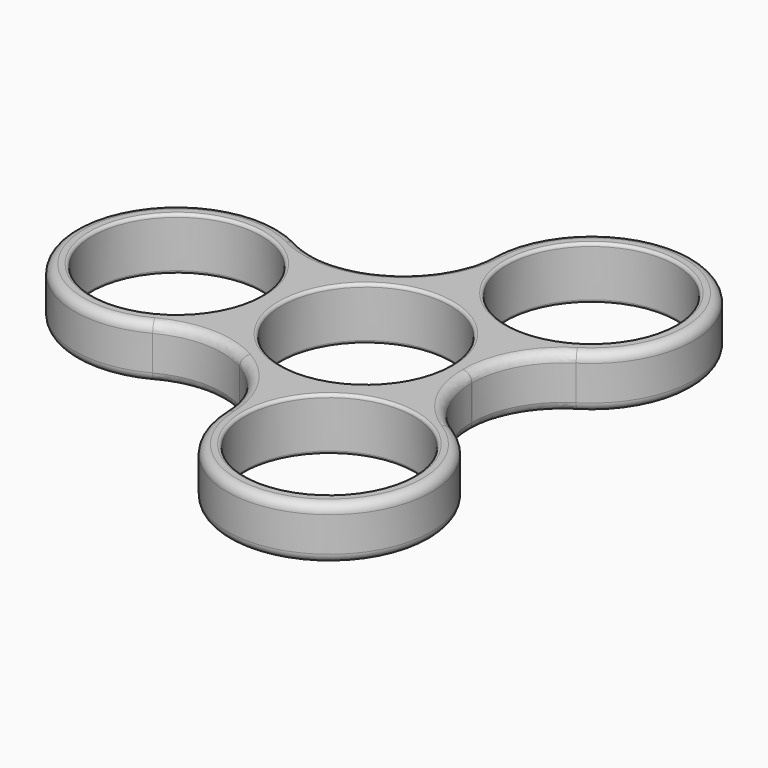
from build123d import *

# Parameters (mm, degrees)
F1_DEPTH = 7
F2_R     = 11.15
F3_DEPTH = 7.001
F4_R     = 11.15
F5_DEPTH = 7.001
F6_R     = 12
F7_R     = 0.4
F8_R     = 1.2


with BuildPart() as f1:
    # F0 (on Top) → F1 (new body)
    with BuildSketch(Plane.XY):
        with BuildLine():
            ThreePointArc((-12.775, 5.7270738602), (-38.5, 0), (-12.775, -5.7270738602))
            ThreePointArc((-12.775, -5.7270738602), (-7, -12.124355653), (1.4277085477, -13.9270114634))
            ThreePointArc((1.4277085477, -13.9270114634), (19.25, -33.3419780457), (11.3472914523, -8.1999376033))
            ThreePointArc((11.3472914523, -8.1999376033), (14, 0), (11.3472914523, 8.1999376033))
            ThreePointArc((11.3472914523, 8.1999376033), (19.25, 33.3419780457), (1.4277085477, 13.9270114634))
            ThreePointArc((1.4277085477, 13.9270114634), (-7, 12.124355653), (-12.775, 5.7270738602))
        make_face()
    extrude(amount=F1_DEPTH)

    # F2 (on face) → F3 (cut, through all)
    with BuildSketch(Plane.XY.offset(7)):
        Circle(F2_R)
    extrude(amount=-F3_DEPTH, mode=Mode.SUBTRACT)

    # F4 (on face) → F5 (cut, through all)
    with BuildSketch(Plane.XY.offset(7)):
        with Locations((-25, 0)):
            Circle(F4_R)
        with Locations((12.5, -21.6506350946)):
            Circle(F4_R)
        with Locations((12.5, 21.6506350946)):
            Circle(F4_R)
    extrude(amount=-F5_DEPTH, mode=Mode.SUBTRACT)

    # F6
    f6_edges = [f1.edges().sort_by_distance(p)[0] for p in [
        (-12.775, -5.727074, 3.5),
        (1.427709, -13.927011, 3.5),
        (11.347291, -8.199938, 3.5),
        (11.347291, 8.199938, 3.5),
        (-12.775, 5.727074, 3.5),
        (1.427709, 13.927011, 3.5),
    ]]
    fillet(f6_edges, radius=F6_R)

    # F7
    f7_edges = [f1.edges().sort_by_distance(p)[0] for p in [
        (-11.15, 0, 7),
        (11.15, 0, 3.5),
        (-11.15, 0, 0),
        (-36.15, 0, 7),
        (-36.15, 0, 0),
        (1.35, 21.650635, 7),
        (23.65, 21.650635, 3.5),
        (1.35, 21.650635, 0),
        (1.35, -21.650635, 7),
        (23.65, -21.650635, 3.5),
        (1.35, -21.650635, 0),
    ]]
    fillet(f7_edges, radius=F7_R)

    # F8
    f8_edges = [f1.edges().sort_by_distance(p)[0] for p in [
        (19.25, -33.341978, 0),
        (-0.992056, -22.113702, 3.5),
        (19.647056, -10.197706, 3.5),
        (19.25, -33.341978, 7),
        (14, 0, 0),
        (13.999997, -0.009328, 3.5),
        (13.999997, 0.009328, 3.5),
        (14, 0, 7),
        (15.504361, -5.834684, 0),
        (15.504361, -5.834684, 7),
        (15.504361, 5.834684, 0),
        (19.647056, 10.197706, 3.5),
        (15.504361, 5.834684, 7),
        (19.25, 33.341978, 0),
        (-0.992056, 22.113702, 3.5),
        (19.25, 33.341978, 7),
        (-2.699196, 16.344512, 0),
        (-6.99192, 12.129017, 3.5),
        (-2.699196, 16.344512, 7),
        (-7, 12.124356, 0),
        (-7.008077, 12.119689, 3.5),
        (-7, 12.124356, 7),
        (-12.805165, 10.509828, 0),
        (-18.655, 11.915997, 3.5),
        (-12.805165, 10.509828, 7),
        (-38.5, 0, 0),
        (-18.655, -11.915997, 3.5),
        (-38.5, 0, 7),
        (-12.805165, -10.509828, 0),
        (-7.008077, -12.119689, 3.5),
        (-12.805165, -10.509828, 7),
        (-7, -12.124356, 0),
        (-6.99192, -12.129017, 3.5),
        (-7, -12.124356, 7),
        (-2.699196, -16.344512, 0),
        (-2.699196, -16.344512, 7),
    ]]
    fillet(f8_edges, radius=F8_R)


solid = f1.part
